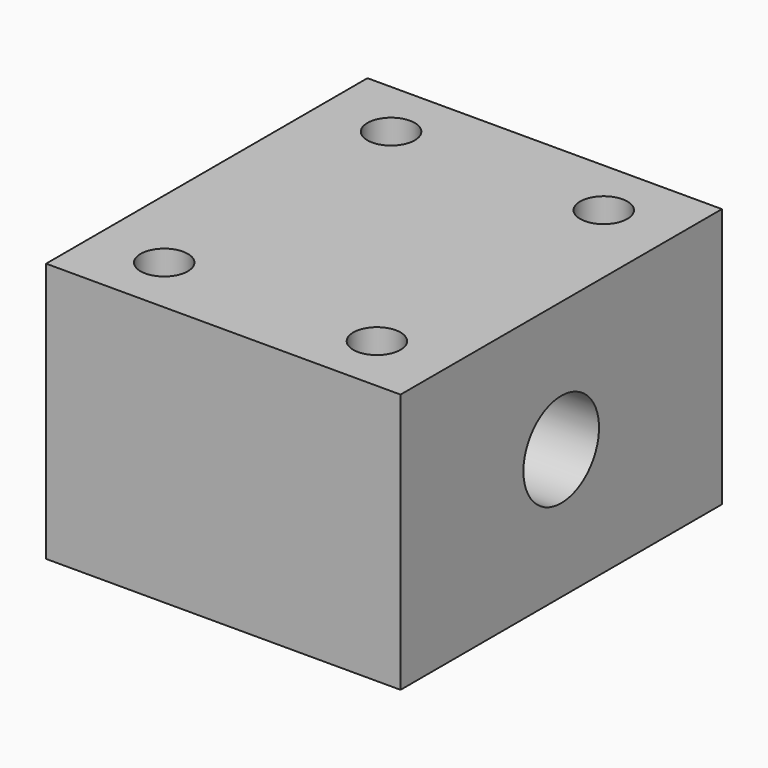
from build123d import *

# Parameters (mm, degrees)
F0_W     = 30
F0_H     = 34
F0_R     = 3.3
F0_R_2   = 2
F1_DEPTH = 22
F4_D     = 8


with BuildPart() as f1:
    # F0 (on Top) → F1 (new body)
    with BuildSketch(Plane.XY):
        with Locations((1.9995351322, 3.2827953717)):
            Rectangle(F0_W, F0_H)
        with Locations((-7.0004648678, -8.7172046283)):
            Circle(F0_R, mode=Mode.SUBTRACT)
        with Locations((10.9995351322, -8.7172046283)):
            Circle(F0_R, mode=Mode.SUBTRACT)
        with Locations((-7.0004648678, 15.2827953717)):
            Circle(F0_R, mode=Mode.SUBTRACT)
        with Locations((10.9995351322, 15.2827953717)):
            Circle(F0_R, mode=Mode.SUBTRACT)
        with Locations((-7.0004648678, -8.7172046283)):
            Circle(F0_R)
        with Locations((-7.0004648678, -8.7172046283)):
            Circle(F0_R_2, mode=Mode.SUBTRACT)
        with Locations((-7.0004648678, 15.2827953717)):
            Circle(F0_R)
        with Locations((-7.0004648678, 15.2827953717)):
            Circle(F0_R_2, mode=Mode.SUBTRACT)
        with Locations((10.9995351322, 15.2827953717)):
            Circle(F0_R)
        with Locations((10.9995351322, 15.2827953717)):
            Circle(F0_R_2, mode=Mode.SUBTRACT)
        with Locations((10.9995351322, -8.7172046283)):
            Circle(F0_R)
        with Locations((10.9995351322, -8.7172046283)):
            Circle(F0_R_2, mode=Mode.SUBTRACT)
    extrude(amount=F1_DEPTH)

    # F4 (through all)
    with Locations(Plane.YZ.offset(16.9995351322)):
        with Locations((3.2827953717, 11)):
            Hole(F4_D / 2)


solid = f1.part
